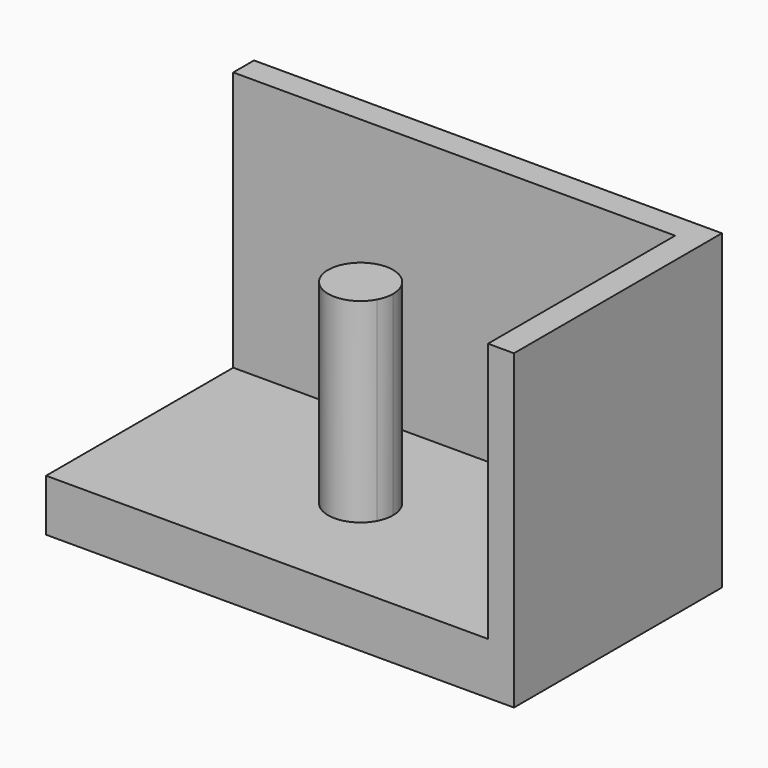
from build123d import *

# Parameters (mm, degrees)
F0_W     = 36
F0_H     = 20
F1_DEPTH = 4
F3_DEPTH = 20
F5_DEPTH = 15


with BuildPart() as f1:
    # F0 (on Top) → F1 (new body)
    with BuildSketch(Plane.XY):
        with Locations((18, 10)):
            Rectangle(F0_W, F0_H)
    extrude(amount=F1_DEPTH)

    # F2 (on face) → F3 (join)
    with BuildSketch(Plane.XY.offset(4)):
        Polygon((36, 20), (0, 20), (0, 18), (34, 18), (34, 0), (36, 0), align=None)
    extrude(amount=F3_DEPTH)

    # F4 (on face) → F5 (join)
    with BuildSketch(Plane.XY.offset(4)):
        with BuildLine():
            ThreePointArc((19.20947, 10.169719), (17, 11.5), (14.79053, 10.169719))
            Line((14.79053, 10.169719), (17, 9))
            Line((17, 9), (19.20947, 10.169719))
        make_face()
        with BuildLine():
            Line((17, 9), (14.79053, 10.169719))
            ThreePointArc((14.79053, 10.169719), (14.5, 9), (14.79053, 7.830281))
            Line((14.79053, 7.830281), (17, 9))
        make_face()
        with BuildLine():
            Line((19.20947, 10.169719), (17, 9))
            Line((17, 9), (19.20947, 7.830281))
            ThreePointArc((19.20947, 7.830281), (19.426281, 8.39737), (19.5, 9))
            ThreePointArc((19.5, 9), (19.426281, 9.60263), (19.20947, 10.169719))
        make_face()
        with BuildLine():
            Line((19.20947, 7.830281), (17, 9))
            Line((17, 9), (14.79053, 7.830281))
            ThreePointArc((14.79053, 7.830281), (17, 6.5), (19.20947, 7.830281))
        make_face()
    extrude(amount=F5_DEPTH)


solid = f1.part
